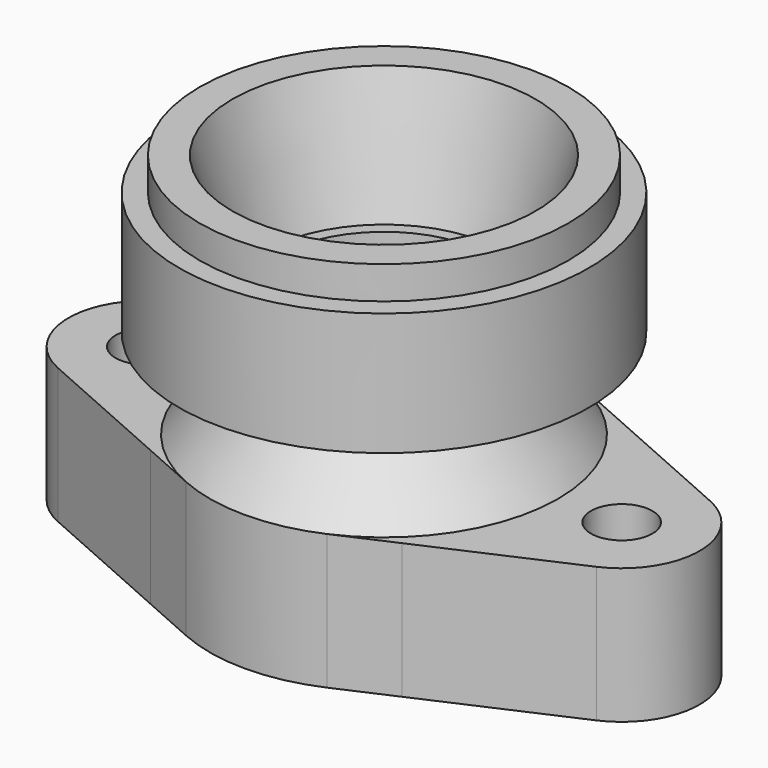
from build123d import *

# Parameters (mm, degrees)
F0_R     = 7.5
F3_DEPTH = 33
F5_START = 3
F4_R     = 42
F5_DEPTH = 30


with BuildPart() as f2:
    # F1 (on Front) → F2 (revolve)
    with BuildSketch(Plane.XZ):
        with BuildLine():
            Line((-32.6045845728, 47.1321178182), (-42.5, 33))
            Line((-42.5, 33), (-26, 33))
            Line((-26, 33), (-26, 63))
            Line((-26, 63), (-29, 63))
            Line((-29, 63), (-37, 93))
            Line((-37, 93), (-45, 93))
            Line((-45, 93), (-45, 85))
            Line((-45, 85), (-50, 85))
            Line((-50, 85), (-50, 55))
            Line((-50, 55), (-36.7003447942, 55))
            ThreePointArc((-36.7003447942, 55), (-32.2652906284, 52.3087430662), (-32.6045845728, 47.1321178182))
        make_face()
    revolve(axis=Axis((0, 0, 36.171267882), (0, 0, 1)))

    # F0 (on Top) → F3 (join)
    with BuildSketch(Plane.XY):
        with BuildLine():
            ThreePointArc((30.7416238862, 32.8626316785), (38.4714348159, 23.3441363774), (43.3448275862, 12.0923910589))
            ThreePointArc((43.3448275862, 12.0923910589), (53.6337221418, 18.491501228), (65.6982762183, 17.3705654274))
            Line((65.6982762183, 17.3705654274), (30.7416238862, 32.8626316785))
        make_face()
        with BuildLine():
            ThreePointArc((-43.3448275862, 12.0923910589), (-38.4714348159, 23.3441363774), (-30.7416238862, 32.8626316785))
            Line((-30.7416238862, 32.8626316785), (-65.6982778503, 17.3705647041))
            ThreePointArc((-65.6982778503, 17.3705647041), (-53.6337230105, 18.4915014331), (-43.3448275862, 12.0923910589))
        make_face()
        with BuildLine():
            Line((-65.6982756625, -17.3705656737), (-30.7416238862, -32.8626316785))
            ThreePointArc((-30.7416238862, -32.8626316785), (-38.4714348159, -23.3441363774), (-43.3448275862, -12.0923910589))
            ThreePointArc((-43.3448275862, -12.0923910589), (-53.633721846, -18.4915011581), (-65.6982756625, -17.3705656737))
        make_face()
        with BuildLine():
            ThreePointArc((65.6982756625, -17.3705656737), (53.633721846, -18.4915011582), (43.3448275862, -12.0923910589))
            ThreePointArc((43.3448275862, -12.0923910589), (38.4714348159, -23.3441363774), (30.7416238862, -32.8626316785))
            Line((30.7416238862, -32.8626316785), (65.6982756625, -17.3705656737))
        make_face()
        with BuildLine():
            ThreePointArc((41.4590517241, 9.3486378759), (42.3417264073, 10.7618989076), (43.3448275862, 12.0923910589))
            ThreePointArc((43.3448275862, 12.0923910589), (38.4714348159, 23.3441363774), (30.7416238862, 32.8626316785))
            Line((30.7416238862, 32.8626316785), (17.219827087, 38.8552127146))
            ThreePointArc((17.219827087, 38.8552127146), (32.8399481472, 26.9775426177), (41.4590517241, 9.3486378759))
        make_face()
        with BuildLine():
            Line((-17.2198272904, 38.8552126244), (-30.7416238862, 32.8626316785))
            ThreePointArc((-30.7416238862, 32.8626316785), (-38.4714348159, 23.3441363774), (-43.3448275862, 12.0923910589))
            ThreePointArc((-43.3448275862, 12.0923910589), (-42.3417264073, 10.7618989076), (-41.4590517241, 9.3486378759))
            ThreePointArc((-41.4590517241, 9.3486378759), (-32.8399482178, 26.9775425317), (-17.2198272904, 38.8552126244))
        make_face()
        with BuildLine():
            ThreePointArc((-43.3448275862, -12.0923910589), (-45, 0), (-43.3448275862, 12.0923910589))
            ThreePointArc((-43.3448275862, 12.0923910589), (-53.6337230105, 18.4915014331), (-65.6982778503, 17.3705647041))
            ThreePointArc((-65.6982778503, 17.3705647041), (-77, -1.1965e-06), (-65.6982756625, -17.3705656737))
            ThreePointArc((-65.6982756625, -17.3705656737), (-53.633721846, -18.4915011581), (-43.3448275862, -12.0923910589))
        make_face()
        with Locations((-58, 0)):
            Circle(F0_R, mode=Mode.SUBTRACT)
        with BuildLine():
            ThreePointArc((-43.3448275862, -12.0923910589), (-38.4714348159, -23.3441363774), (-30.7416238862, -32.8626316785))
            Line((-30.7416238862, -32.8626316785), (-17.2198274837, -38.8552125388))
            ThreePointArc((-17.2198274837, -38.8552125388), (-32.8399482849, -26.9775424501), (-41.4590517241, -9.3486378759))
            ThreePointArc((-41.4590517241, -9.3486378759), (-42.3417264073, -10.7618989076), (-43.3448275862, -12.0923910589))
        make_face()
        with BuildLine():
            ThreePointArc((30.7416238862, -32.8626316785), (38.4714348159, -23.3441363774), (43.3448275862, -12.0923910589))
            ThreePointArc((43.3448275862, -12.0923910589), (42.3417264073, -10.7618989076), (41.4590517241, -9.3486378759))
            ThreePointArc((41.4590517241, -9.3486378759), (32.8399481447, -26.9775426208), (17.2198270797, -38.8552127178))
            Line((17.2198270797, -38.8552127178), (30.7416238862, -32.8626316785))
        make_face()
        with BuildLine():
            ThreePointArc((43.3448275862, 12.0923910589), (44.5842867016, 6.1025715326), (45, 0))
            ThreePointArc((45, 0), (44.5842867016, -6.1025715326), (43.3448275862, -12.0923910589))
            ThreePointArc((43.3448275862, -12.0923910589), (53.633721846, -18.4915011582), (65.6982756625, -17.3705656737))
            ThreePointArc((65.6982756625, -17.3705656737), (73.9258789018, -10.3617750027), (77, 0))
            ThreePointArc((77, 0), (73.9258790675, 10.3617747479), (65.6982762183, 17.3705654274))
            ThreePointArc((65.6982762183, 17.3705654274), (53.6337221418, 18.491501228), (43.3448275862, 12.0923910589))
        make_face()
        with Locations((58, 0)):
            Circle(F0_R, mode=Mode.SUBTRACT)
        with BuildLine():
            ThreePointArc((43.3448275862, -12.0923910589), (44.5842867016, -6.1025715326), (45, 0))
            ThreePointArc((45, 0), (44.5842867016, 6.1025715326), (43.3448275862, 12.0923910589))
            ThreePointArc((43.3448275862, 12.0923910589), (42.3417264073, 10.7618989076), (41.4590517241, 9.3486378759))
            ThreePointArc((41.4590517241, 9.3486378759), (42.2389612696, 4.7032064448), (42.5, 0))
            ThreePointArc((42.5, 0), (42.2389612696, -4.7032064448), (41.4590517241, -9.3486378759))
            ThreePointArc((41.4590517241, -9.3486378759), (42.3417264073, -10.7618989076), (43.3448275862, -12.0923910589))
        make_face()
        with BuildLine():
            ThreePointArc((-41.4590517241, 9.3486378759), (-42.3417264073, 10.7618989076), (-43.3448275862, 12.0923910589))
            ThreePointArc((-43.3448275862, 12.0923910589), (-45, 0), (-43.3448275862, -12.0923910589))
            ThreePointArc((-43.3448275862, -12.0923910589), (-42.3417264073, -10.7618989076), (-41.4590517241, -9.3486378759))
            ThreePointArc((-41.4590517241, -9.3486378759), (-42.5, 0), (-41.4590517241, 9.3486378759))
        make_face()
        with BuildLine():
            ThreePointArc((17.2198270797, -38.8552127178), (32.8399481447, -26.9775426208), (41.4590517241, -9.3486378759))
            ThreePointArc((41.4590517241, -9.3486378759), (41.2735245316, -9.0124923526), (41.0948275862, -8.672666583))
            ThreePointArc((41.0948275862, -8.672666583), (0, -42), (-41.0948275862, -8.672666583))
            ThreePointArc((-41.0948275862, -8.672666583), (-41.2735245316, -9.0124923526), (-41.4590517241, -9.3486378759))
            ThreePointArc((-41.4590517241, -9.3486378759), (-32.8399482849, -26.9775424501), (-17.2198274837, -38.8552125388))
            ThreePointArc((-17.2198274837, -38.8552125388), (-2.209e-07, -42.5), (17.2198270797, -38.8552127178))
        make_face()
        with BuildLine():
            ThreePointArc((41.0948275862, 8.672666583), (41.2735245316, 9.0124923526), (41.4590517241, 9.3486378759))
            ThreePointArc((41.4590517241, 9.3486378759), (32.8399481472, 26.9775426177), (17.219827087, 38.8552127146))
            ThreePointArc((17.219827087, 38.8552127146), (-1.113e-07, 42.5), (-17.2198272904, 38.8552126244))
            ThreePointArc((-17.2198272904, 38.8552126244), (-32.8399482178, 26.9775425317), (-41.4590517241, 9.3486378759))
            ThreePointArc((-41.4590517241, 9.3486378759), (-41.2735245316, 9.0124923526), (-41.0948275862, 8.672666583))
            ThreePointArc((-41.0948275862, 8.672666583), (0, 42), (41.0948275862, 8.672666583))
        make_face()
        with BuildLine():
            ThreePointArc((42.5, 0), (42.2389612696, 4.7032064448), (41.4590517241, 9.3486378759))
            ThreePointArc((41.4590517241, 9.3486378759), (41.2735245316, 9.0124923526), (41.0948275862, 8.672666583))
            ThreePointArc((41.0948275862, 8.672666583), (41.7730939638, 4.3598876923), (42, 0))
            ThreePointArc((42, 0), (41.7730939638, -4.3598876923), (41.0948275862, -8.672666583))
            ThreePointArc((41.0948275862, -8.672666583), (41.2735245316, -9.0124923526), (41.4590517241, -9.3486378759))
            ThreePointArc((41.4590517241, -9.3486378759), (42.2389612696, -4.7032064448), (42.5, 0))
        make_face()
        with BuildLine():
            ThreePointArc((-41.0948275862, -8.672666583), (-42, 0), (-41.0948275862, 8.672666583))
            ThreePointArc((-41.0948275862, 8.672666583), (-41.2735245316, 9.0124923526), (-41.4590517241, 9.3486378759))
            ThreePointArc((-41.4590517241, 9.3486378759), (-42.5, 0), (-41.4590517241, -9.3486378759))
            ThreePointArc((-41.4590517241, -9.3486378759), (-41.2735245316, -9.0124923526), (-41.0948275862, -8.672666583))
        make_face()
    extrude(amount=F3_DEPTH)

    # F4 (on Top) → F5 (join)
    with BuildSketch(Plane.XY.offset(F5_START)):
        Circle(F4_R)
    extrude(amount=F5_DEPTH)


solid = f2.part
